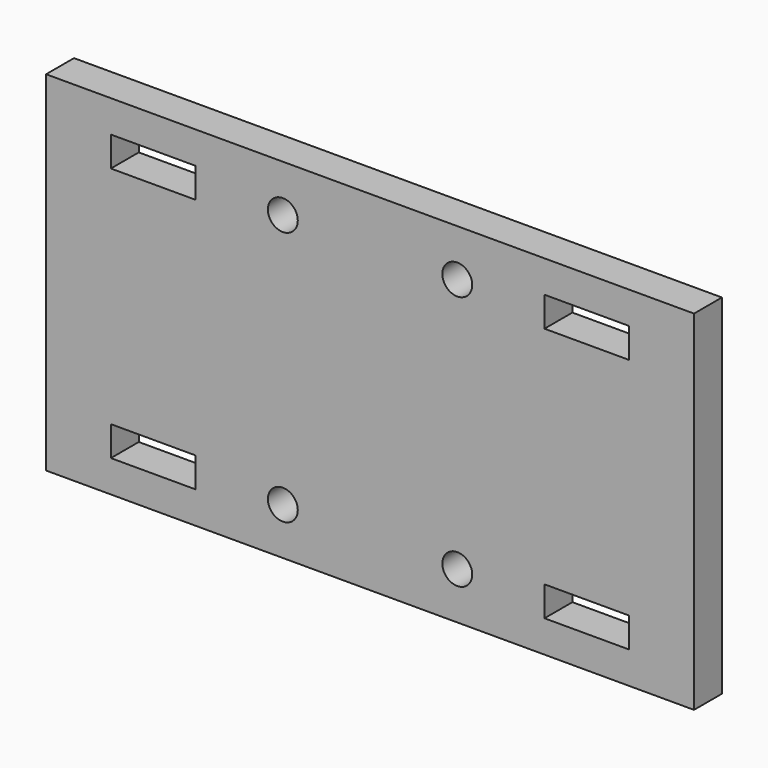
from build123d import *

# Parameters (mm, degrees)
F0_W     = 130
F0_H     = 70
F0_W_2   = 17
F0_H_2   = 6
F0_R     = 3
F1_DEPTH = 7


with BuildPart() as f1:
    # F0 (on Front) → F1 (new body)
    with BuildSketch(Plane.XZ):
        Rectangle(F0_W, F0_H)
        with Locations((-43.5, -25.575001)):
            Rectangle(F0_W_2, F0_H_2, mode=Mode.SUBTRACT)
        with Locations((-17.5, -25.575001)):
            Circle(F0_R, mode=Mode.SUBTRACT)
        with Locations((17.5, -25.575001)):
            Circle(F0_R, mode=Mode.SUBTRACT)
        with Locations((43.5, -25.575001)):
            Rectangle(F0_W_2, F0_H_2, mode=Mode.SUBTRACT)
        with Locations((-43.5, 25.575001)):
            Rectangle(F0_W_2, F0_H_2, mode=Mode.SUBTRACT)
        with Locations((-17.5, 25.575001)):
            Circle(F0_R, mode=Mode.SUBTRACT)
        with Locations((17.5, 25.575001)):
            Circle(F0_R, mode=Mode.SUBTRACT)
        with Locations((43.5, 25.575001)):
            Rectangle(F0_W_2, F0_H_2, mode=Mode.SUBTRACT)
    extrude(amount=F1_DEPTH)


solid = f1.part
